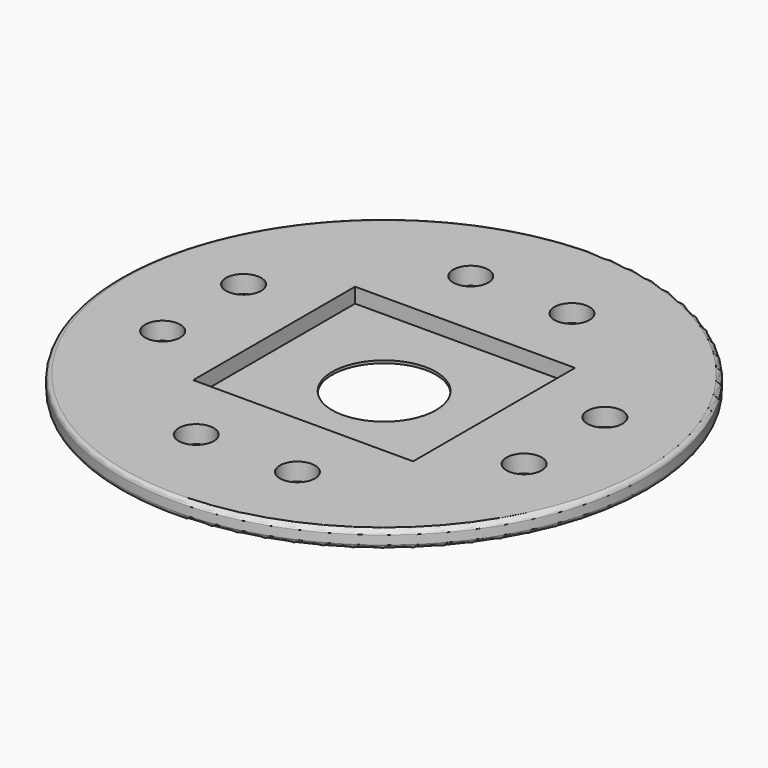
from build123d import *

# Parameters (mm, degrees)
F0_R     = 15
F1_DEPTH = 1
F2_W     = 12.5
F2_H     = 11.5
F3_DEPTH = 0.85
F5_R     = 2.950818
F6_DEPTH = 0.15
F7_R     = 0.25
F8_R     = 1
F9_DEPTH = 1


with BuildPart() as f1:
    # F0 (on Top) → F1 (new body)
    with BuildSketch(Plane.XY):
        Circle(F0_R)
    extrude(amount=F1_DEPTH)

    # F2 (on face) → F3 (cut)
    with BuildSketch(Plane.XY.offset(1)):
        with Locations((0, 0.000526)):
            Rectangle(F2_W, F2_H)
    extrude(amount=-F3_DEPTH, mode=Mode.SUBTRACT)

    # F5 (on offset) → F6 (cut)
    with BuildSketch(Plane.XY.offset(0.15)):
        Circle(F5_R)
    extrude(amount=-F6_DEPTH, mode=Mode.SUBTRACT)

    # F7
    f7_edges = [f1.edges().sort_by_distance(p)[0] for p in [
        (-15, 0, 1),
        (-15, 0, 0),
    ]]
    fillet(f7_edges, radius=F7_R)

    # F8 (on face) → F9 (cut)
    with BuildSketch(Plane.XY.offset(1)):
        with Locations((-10.25, 2.832073)):
            Circle(F8_R)
        with Locations((-10.25, -2.917927)):
            Circle(F8_R)
        with Locations((-2.875, 9.750526)):
            Circle(F8_R)
        with Locations((2.875, 9.750526)):
            Circle(F8_R)
        with Locations((10.25, 2.875)):
            Circle(F8_R)
        with Locations((10.25, -2.863999)):
            Circle(F8_R)
        with Locations((2.875, -9.749474)):
            Circle(F8_R)
        with Locations((-2.875, -9.749474)):
            Circle(F8_R)
    extrude(amount=-F9_DEPTH, mode=Mode.SUBTRACT)


solid = f1.part
